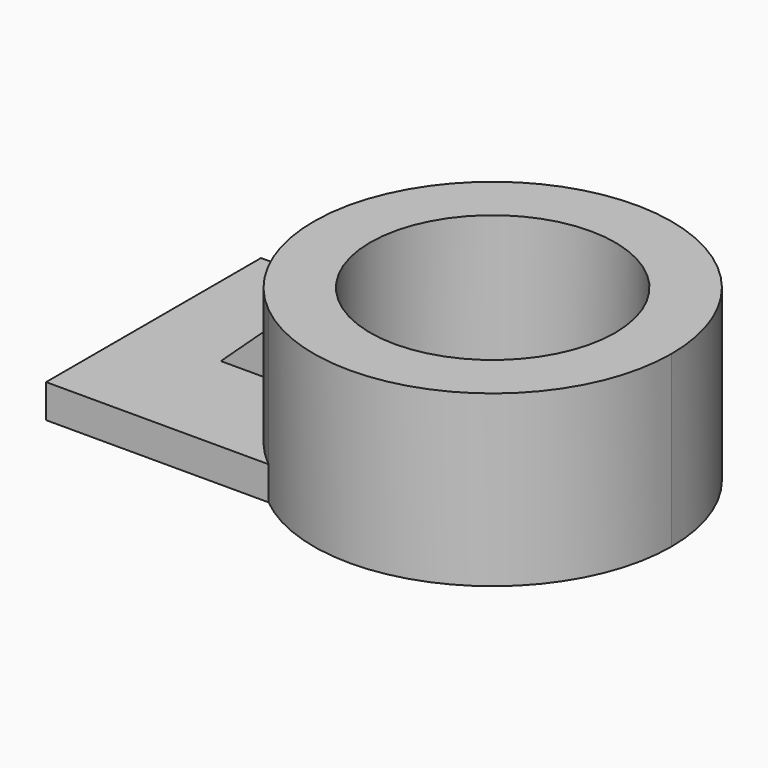
from build123d import *

# Parameters (mm, degrees)
F0_R     = 30.602099
F1_DEPTH = 42.418
F2_DEPTH = 8.382
F4_DEPTH = 6.604
F5_DEPTH = 6.858


with BuildPart() as f1:
    # F0 (on Top) → F1 (new body)
    with BuildSketch(Plane.XY):
        with BuildLine():
            ThreePointArc((-28.389897, -34.572225), (19.120688, -40.442852), (44.735053, 0))
            ThreePointArc((44.735053, 0), (17.744009, 41.065498), (-30.658849, 32.576985))
            ThreePointArc((-30.658849, 32.576985), (-44.709537, -1.510722), (-28.389897, -34.572225))
        make_face()
        Circle(F0_R, mode=Mode.SUBTRACT)
    extrude(amount=F1_DEPTH)

    # F0 (on Top) → F2 (join)
    with BuildSketch(Plane.XY):
        with BuildLine():
            ThreePointArc((-28.389897, -34.572225), (-44.709537, -1.510722), (-30.658849, 32.576985))
            Line((-30.658849, 32.576985), (-83.961123, 32.576985))
            Line((-83.961123, 32.576985), (-83.961123, -34.572225))
            Line((-83.961123, -34.572225), (-28.389897, -34.572225))
        make_face()
    extrude(amount=F2_DEPTH)

    # F3 (on Front) → F4 (join)
    with BuildSketch(Plane.XZ):
        Polygon((-44.544075, 8.560741), (-44.544075, 25.352962), (-62.653333, 8.560741), align=None)
    extrude(amount=F4_DEPTH)

    # F4_face (on face) → F5 (join)
    with BuildSketch(Plane(origin=(-50.707813, 0, 14.099119), x_dir=(1, 0, 0), z_dir=(0, 1, 0))):
        Polygon((-11.94552, 5.538377), (5.97276, -11.076754), (5.97276, 5.538377), align=None)
    extrude(amount=F5_DEPTH)


solid = f1.part
